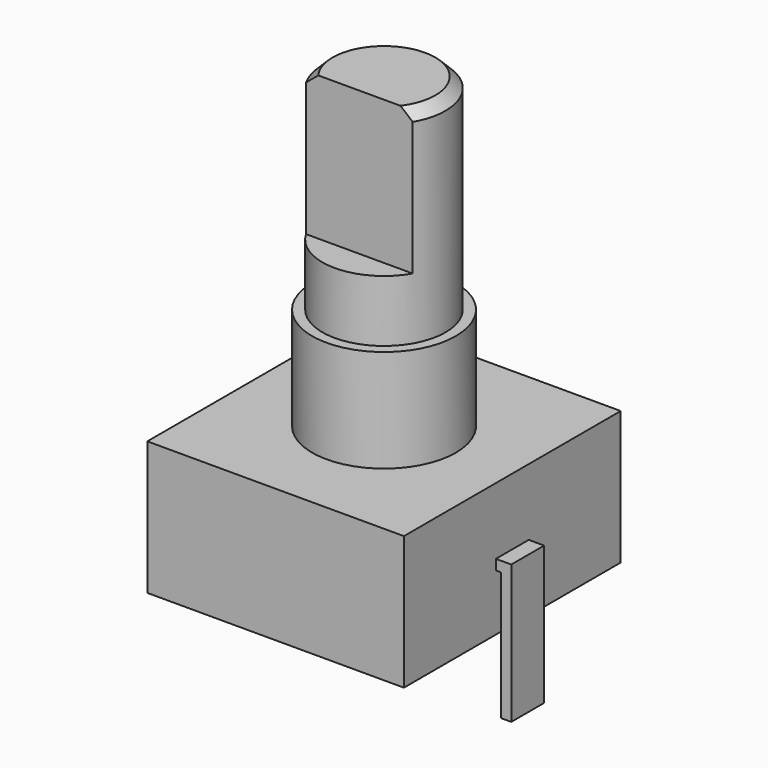
from build123d import *

# Parameters (mm, degrees)
F0_W      = 12.5
F0_H      = 13.2
F1_DEPTH  = 6.5
F2_R      = 3.5
F3_DEPTH  = 5
F4_R      = 3
F5_DEPTH  = 10
F6_SIZE   = 0.5
F7_W      = 12.7
F7_H      = 1.5
F8_DEPTH  = 7
F10_DEPTH = 1


with BuildPart() as f1:
    # F0 (on Top) → F1 (new body)
    with BuildSketch(Plane.XY):
        Rectangle(F0_W, F0_H)
    extrude(amount=F1_DEPTH)

    # F2 (on face) → F3 (join)
    with BuildSketch(Plane.XY.offset(6.5)):
        Circle(F2_R)
    extrude(amount=F3_DEPTH)

    # F4 (on face) → F5 (join)
    with BuildSketch(Plane.XY.offset(11.5)):
        Circle(F4_R)
    extrude(amount=F5_DEPTH)

    # F6
    f6_edges = [f1.edges().sort_by_distance(p)[0] for p in [
        (-3, 0, 21.5),
    ]]
    chamfer(f6_edges, length=F6_SIZE)

    # F7 (on face) → F8 (cut)
    with BuildSketch(Plane.XY.offset(21.5)):
        with Locations((0, -2.25)):
            Rectangle(F7_W, F7_H)
    extrude(amount=-F8_DEPTH, mode=Mode.SUBTRACT)

    # F9 (on Front) → F10 (join, symmetric)
    with BuildSketch(Plane.XZ):
        Polygon((-6.25, 3.25), (-7, 3.25), (-7, -3.5), (-6.5, -3.5), (-6.5, 2.75), (-6.25, 2.75), align=None)
        Polygon((6.25, 2.75), (6.5, 2.75), (6.5, -3.5), (7, -3.5), (7, 3.25), (6.25, 3.25), align=None)
    extrude(amount=F10_DEPTH, both=True)


solid = f1.part
